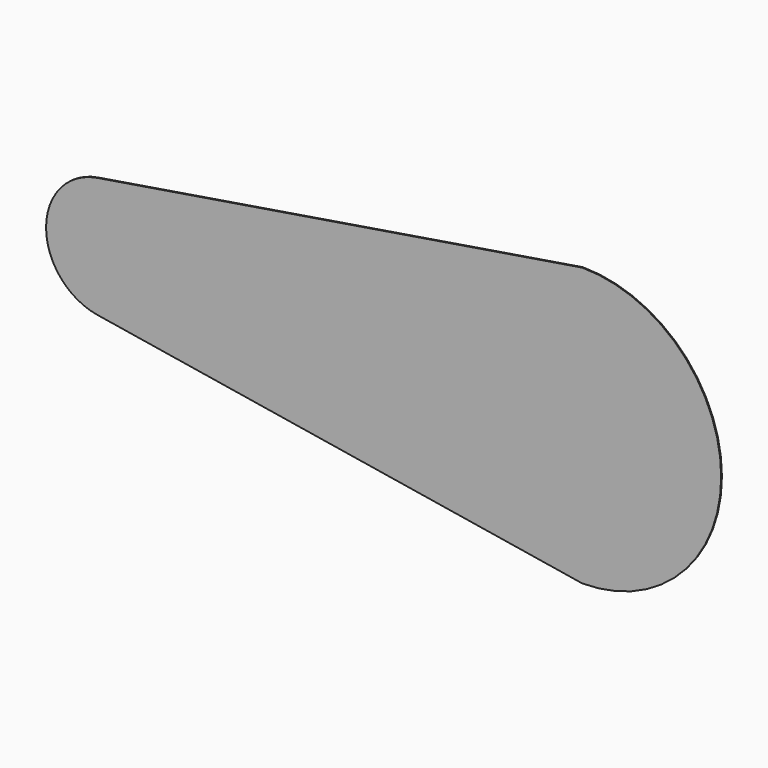
from build123d import *

# Parameters (mm, degrees)
F1_DEPTH = 0.75


with BuildPart() as f1:
    # F0 (on Front) → F1 (new body, symmetric)
    with BuildSketch(Plane.XZ):
        with BuildLine():
            Line((-793.5207663115, -98.7083332186), (-71.9529328471, -215.821744629))
            ThreePointArc((-71.9529328471, -215.821744629), (-184.5610227306, -133.0168368615), (-227.5, 0))
            Line((-227.5, 0), (-677.5, 0))
            ThreePointArc((-677.5, 0), (-712.7006042897, -76.1645476293), (-793.5207663115, -98.7083332186))
        make_face()
        with BuildLine():
            ThreePointArc((0, -227.5), (160.8667927199, -160.8667927199), (227.5, 0))
            ThreePointArc((227.5, 0), (160.8667927199, 160.8667927199), (0, 227.5))
            Line((0, 227.5), (-71.9529328471, 215.821744629))
            ThreePointArc((-71.9529328471, 215.821744629), (-184.5610227306, 133.0168368615), (-227.5, 0))
            ThreePointArc((-227.5, 0), (-184.5610227306, -133.0168368615), (-71.9529328471, -215.821744629))
            Line((-71.9529328471, -215.821744629), (0, -227.5))
        make_face()
        with BuildLine():
            ThreePointArc((-227.5, 0), (-184.5610227306, 133.0168368615), (-71.9529328471, 215.821744629))
            Line((-71.9529328471, 215.821744629), (-793.5207663115, 98.7083332186))
            ThreePointArc((-793.5207663115, 98.7083332186), (-712.7006042897, 76.1645476293), (-677.5, 0))
            Line((-677.5, 0), (-227.5, 0))
        make_face()
        with BuildLine():
            ThreePointArc((-877.5, 0), (-853.6645476293, -64.7993957103), (-793.5207663115, -98.7083332186))
            ThreePointArc((-793.5207663115, -98.7083332186), (-712.7006042897, -76.1645476293), (-677.5, 0))
            Line((-677.5, 0), (-877.5, 0))
        make_face()
        with BuildLine():
            ThreePointArc((-677.5, 0), (-712.7006042897, 76.1645476293), (-793.5207663115, 98.7083332186))
            ThreePointArc((-793.5207663115, 98.7083332186), (-853.6645476293, 64.7993957103), (-877.5, 0))
            Line((-877.5, 0), (-677.5, 0))
        make_face()
    extrude(amount=F1_DEPTH, both=True)


solid = f1.part
